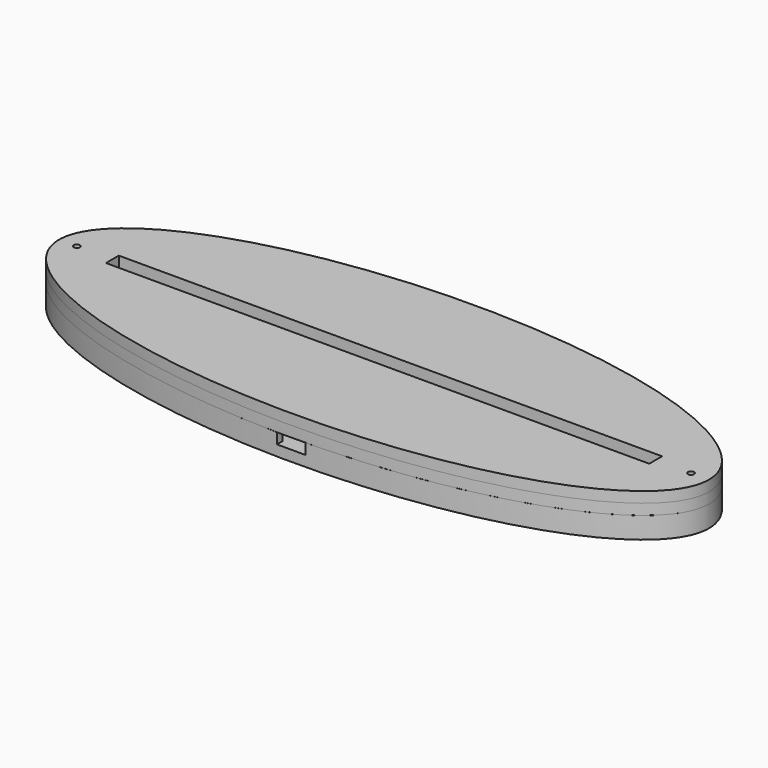
from build123d import *

# Parameters (mm, degrees)
BOX_BOTTOM_HALF_0_W     = 184.000896
BOX_BOTTOM_HALF_0_H     = 66.997861
BOX_BOTTOM_HALF_0_DEPTH = 7
PAD_DEPTH               = 6
SKETCH001_W             = 167
SKETCH001_H             = 10
POCKET_DEPTH            = 3
SKETCH002_W             = 18
SKETCH002_H             = 20
POCKET001_DEPTH         = 3
SKETCH003_W             = 12
SKETCH003_H             = 15.5
SKETCH003_W_2           = 8
SKETCH003_H_2           = 2.1
POCKET002_DEPTH         = 3
PAD001_DEPTH            = 3
SKETCH005_W             = 164.15
SKETCH005_H             = 4.44
POCKET003_DEPTH         = 3
SKETCH006_W             = 152.15
SKETCH006_H             = 4.5
PAD002_DEPTH            = 3
SKETCH007_R             = 0.85
POCKET004_DEPTH         = 399.26835


with BuildPart() as box_bottom_half_0_body:
    # box_bottom_half_0 → box_bottom_half_0 (new body)
    with BuildSketch(Plane(origin=(-91.999523, -33.499875, -1), x_dir=(1, 0, 0), z_dir=(0, 0, 1))):
        with Locations((92.000448, 33.498931)):
            Rectangle(BOX_BOTTOM_HALF_0_W, BOX_BOTTOM_HALF_0_H)
    extrude(amount=BOX_BOTTOM_HALF_0_DEPTH)


with BuildPart() as body:
    # Sketch → Pad (new body)
    with BuildSketch(Plane.XY):
        with BuildLine():
            add(Edge.make_bspline(
                [(91.001374, 0), (91.001374, 56.291651), (-45.500687, 28.145826), (-182.002747, 0), (-45.500687, -28.145826), (91.001374, -56.291651), (91.001374, 0)],
                knots=[0, 0, 0, 2.094395, 2.094395, 4.18879, 4.18879, 6.283185, 6.283185, 6.283185], degree=2, weights=[1, 0.5, 1, 0.5, 1, 0.5, 1]))
        make_face()
    extrude(amount=PAD_DEPTH)

    # Sketch001 (on Face3 of Pad) → Pocket (cut)
    with BuildSketch(Plane.XY.offset(6)):
        Rectangle(SKETCH001_W, SKETCH001_H)
    extrude(amount=-POCKET_DEPTH, mode=Mode.SUBTRACT)

    # Sketch002 (on Face3 of Pocket) → Pocket001 (cut)
    with BuildSketch(Plane.XY.offset(6)):
        with Locations((0, -20.5)):
            Rectangle(SKETCH002_W, SKETCH002_H)
    extrude(amount=-POCKET001_DEPTH, mode=Mode.SUBTRACT)

    # Sketch003 (on Face3 of Pocket001) → Pocket002 (cut)
    with BuildSketch(Plane.XY.offset(6)):
        with Locations((0, -2.75)):
            Rectangle(SKETCH003_W, SKETCH003_H)
        with Locations((0, -31.55)):
            Rectangle(SKETCH003_W_2, SKETCH003_H_2)
    extrude(amount=-POCKET002_DEPTH, mode=Mode.SUBTRACT)

    # Sketch004 (on Face3 of Pocket002) → Pad001 (join)
    with BuildSketch(Plane.XY.offset(6)):
        with BuildLine():
            add(Edge.make_bspline(
                [(91.001374, 0), (91.001374, 56.291651), (-45.500687, 28.145826), (-182.002747, 0), (-45.500687, -28.145826), (91.001374, -56.291651), (91.001374, 0)],
                knots=[0, 0, 0, 2.094395, 2.094395, 4.18879, 4.18879, 6.283185, 6.283185, 6.283185], degree=2, weights=[1, 0.5, 1, 0.5, 1, 0.5, 1]))
        make_face()
    extrude(amount=PAD001_DEPTH)

    # Sketch005 (on Face8 of Pad001) → Pocket003 (cut)
    with BuildSketch(Plane.XY.offset(9)):
        Rectangle(SKETCH005_W, SKETCH005_H)
    extrude(amount=-POCKET003_DEPTH, mode=Mode.SUBTRACT)

    # Sketch006 (on Face8 of Pocket003) → Pad002 (join)
    with BuildSketch(Plane.XY.offset(9)):
        with BuildLine():
            add(Edge.make_bspline(
                [(91.001374, 0), (91.001374, 56.291651), (-45.500687, 28.145826), (-182.002747, 0), (-45.500687, -28.145826), (91.001374, -56.291651), (91.001374, 0)],
                knots=[0, 0, 0, 2.094395, 2.094395, 4.18879, 4.18879, 6.283185, 6.283185, 6.283185], degree=2, weights=[1, 0.5, 1, 0.5, 1, 0.5, 1]))
        make_face()
        Rectangle(SKETCH006_W, SKETCH006_H, mode=Mode.SUBTRACT)
    extrude(amount=PAD002_DEPTH)

    # Sketch007 (on Face12 of Pad002) → Pocket004 (cut, through all)
    with BuildSketch(Plane.XY.offset(12)):
        with Locations((-86, 0)):
            Circle(SKETCH007_R)
    pocket004 = extrude(amount=-POCKET004_DEPTH, mode=Mode.SUBTRACT)

    # Mirrored: Pocket004 across Sketch007 V_Axis
    add(pocket004.mirror(Plane(origin=(0, 0, 12), x_dir=(0, 0, 1), z_dir=(1, 0, 0))), mode=Mode.SUBTRACT)


with BuildPart() as bottom_half_0_body:
    # bottom_half_0 base: copy of Body
    add(body.part)

    # bottom_half_0: intersect box_bottom_half_0 body
    add(box_bottom_half_0_body.part, mode=Mode.INTERSECT)


with BuildPart() as top_half_0_body:
    # top_half_0 base: copy of Body
    add(body.part)

    # top_half_0: cut box_bottom_half_0 body
    add(box_bottom_half_0_body.part, mode=Mode.SUBTRACT)


solid = Compound([bottom_half_0_body.part, top_half_0_body.part])
